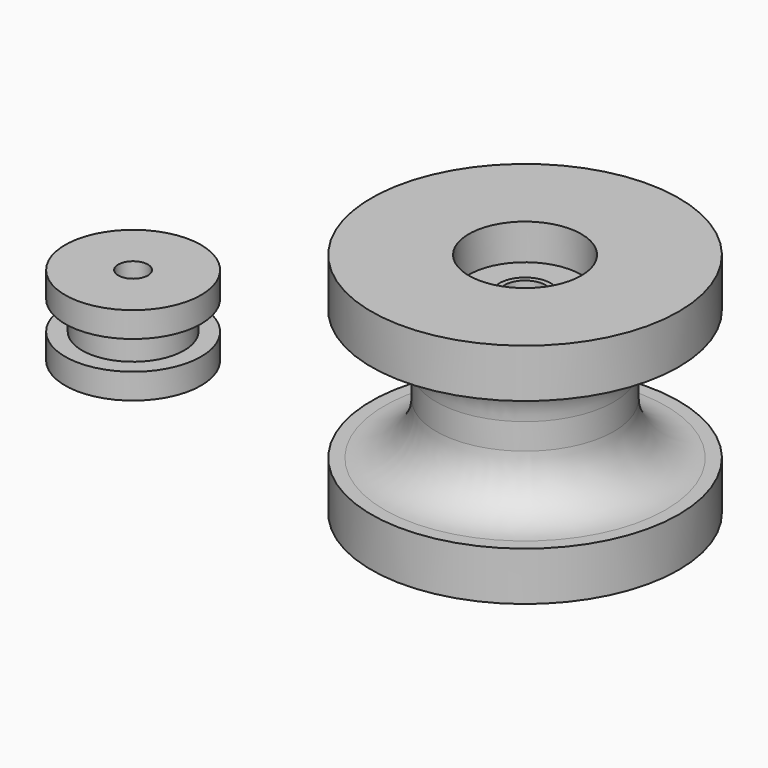
from build123d import *


with BuildPart() as f1:
    # F0 (on Front) → F1 (revolve)
    with BuildSketch(Plane.XZ):
        with BuildLine():
            Line((4, 0), (17.35, 0))
            Line((17.35, 0), (17.35, 2.54))
            ThreePointArc((17.35, 2.54), (20.325795, 9.724205), (27.51, 12.7))
            Line((27.51, 12.7), (30.05, 12.7))
            Line((30.05, 12.7), (30.05, 22.225))
            Line((30.05, 22.225), (17.35, 22.225))
            Line((17.35, 22.225), (11, 22.225))
            Line((11, 22.225), (11, 15.225))
            Line((11, 15.225), (5, 15.225))
            Line((5, 15.225), (5, 15.725))
            Line((5, 15.725), (4, 15.725))
            Line((4, 15.725), (4, 0))
        make_face()
        with BuildLine():
            Line((17.35, -2.54), (17.35, 0))
            Line((17.35, 0), (4, 0))
            Line((4, 0), (4, -15.725))
            Line((4, -15.725), (5, -15.725))
            Line((5, -15.725), (5, -15.225))
            Line((5, -15.225), (11, -15.225))
            Line((11, -15.225), (11, -22.225))
            Line((11, -22.225), (17.35, -22.225))
            Line((17.35, -22.225), (30.05, -22.225))
            Line((30.05, -22.225), (30.05, -12.7))
            Line((30.05, -12.7), (27.51, -12.7))
            ThreePointArc((27.51, -12.7), (20.325795, -9.724205), (17.35, -2.54))
        make_face()
    revolve(axis=Axis((0, 0, 10.264005), (0, 0, -1)))


with BuildPart() as f3:
    # F2 (on Front) → F3 (revolve)
    with BuildSketch(Plane.XZ):
        Polygon((-71.111932, -10.270434), (-71.111932, -15.902609), (-74.046522, -15.902609), (-74.046522, -20.872174), (-63.33394, -20.872174), (-63.33394, -15.902609), (-66.633686, -15.902609), (-66.633686, -10.270434), (-63.33394, -10.270434), (-63.33394, -5.30087), (-73.715217, -5.30087), (-73.715217, -10.270434), align=None)
    revolve(axis=Axis((-76.615945, 0, -15.571305), (0, 0, -1)))


solid = Compound([f1.part, f3.part])
